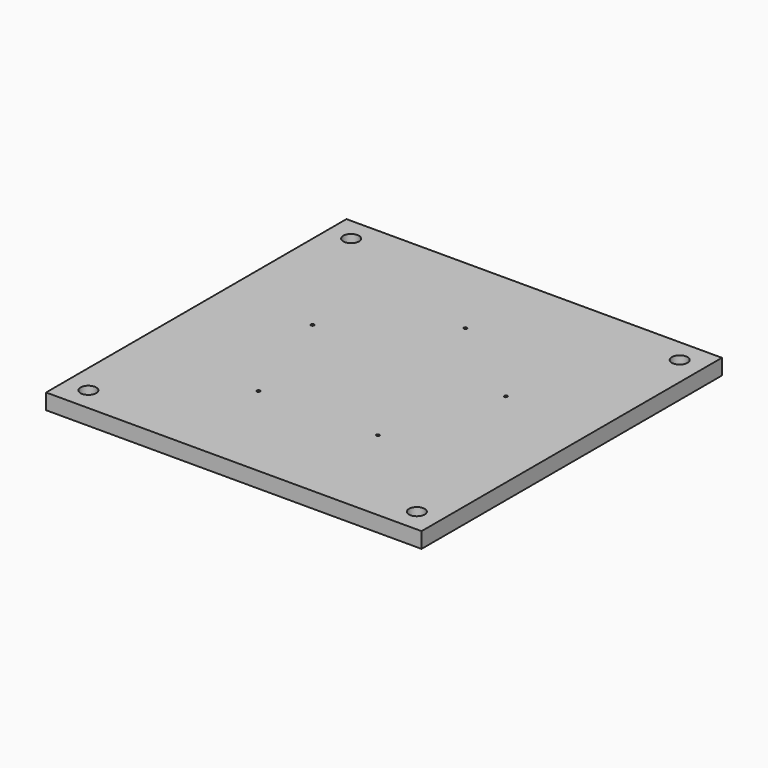
from build123d import *

# Parameters (mm, degrees)
F0_W     = 120
F0_H     = 120
F0_R     = 2.5
F0_R_2   = 0.5
F1_DEPTH = 5


with BuildPart() as f1:
    # F0 (on Top) → F1 (new body)
    with BuildSketch(Plane.XY):
        Rectangle(F0_W, F0_H)
        with Locations((-52.5, -52.5)):
            Circle(F0_R, mode=Mode.SUBTRACT)
        with Locations((-19.103021, -26.293052)):
            Circle(F0_R_2, mode=Mode.SUBTRACT)
        with Locations((52.5, -52.5)):
            Circle(F0_R, mode=Mode.SUBTRACT)
        with Locations((19.103021, -26.293052)):
            Circle(F0_R_2, mode=Mode.SUBTRACT)
        with Locations((-30.909337, 10.043052)):
            Circle(F0_R_2, mode=Mode.SUBTRACT)
        with Locations((-52.5, 52.5)):
            Circle(F0_R, mode=Mode.SUBTRACT)
        with Locations((30.909337, 10.043052)):
            Circle(F0_R_2, mode=Mode.SUBTRACT)
        with Locations((0, 32.5)):
            Circle(F0_R_2, mode=Mode.SUBTRACT)
        with Locations((52.5, 52.5)):
            Circle(F0_R, mode=Mode.SUBTRACT)
    extrude(amount=F1_DEPTH)


solid = f1.part
